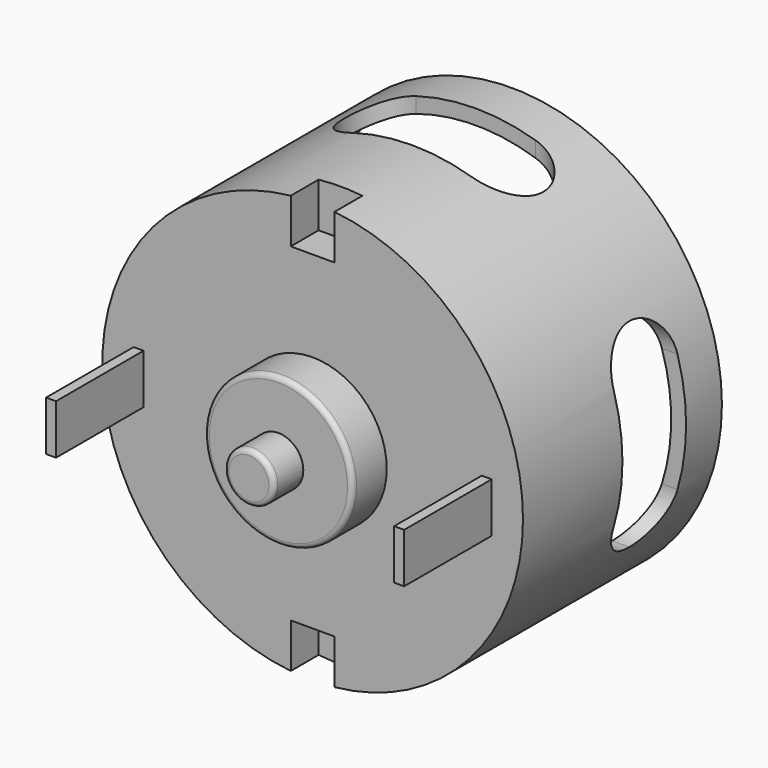
from build123d import *

# Parameters (mm, degrees)
F0_W      = 1
F0_H      = 5
F1_DEPTH  = 11
F0_R      = 21.15
F2_DEPTH  = 25
F3_R      = 19.65
F4_DEPTH  = 20
F6_DEPTH  = 22.5
F8_DEPTH  = 22.5
F10_DEPTH = 3.5
F11_R     = 7.45
F11_R_2   = 2.5
F12_DEPTH = 4.3
F13_DEPTH = 8
F14_R     = 0.5
F15_DEPTH = 1


with BuildPart() as f1:
    # F0 (on Front) → F1 (new body)
    with BuildSketch(Plane.XZ):
        with Locations((-17.5, 0)):
            Rectangle(F0_W, F0_H)
    extrude(amount=F1_DEPTH)


with BuildPart() as f1b:
    # F0 (on Front) → F1, piece 2 (new body)
    with BuildSketch(Plane.XZ):
        with Locations((17.5, 0)):
            Rectangle(F0_W, F0_H)
    extrude(amount=F1_DEPTH)


with BuildPart() as f2:
    # F0 (on Front) → F2 (new body)
    with BuildSketch(Plane.XZ):
        Circle(F0_R)
        with Locations((-17.5, 0)):
            Rectangle(F0_W, F0_H, mode=Mode.SUBTRACT)
        with Locations((17.5, 0)):
            Rectangle(F0_W, F0_H, mode=Mode.SUBTRACT)
        with Locations((-17.5, 0)):
            Rectangle(F0_W, F0_H)
        with Locations((17.5, 0)):
            Rectangle(F0_W, F0_H)
    extrude(amount=-F2_DEPTH)

    # F3 (on face) → F4 (cut)
    with BuildSketch(Plane(origin=(0, 25, 0), x_dir=(-1, 0, 0), z_dir=(0, 1, 0))):
        Circle(F3_R)
    extrude(amount=-F4_DEPTH, mode=Mode.SUBTRACT)

    # F5 (on Right) → F6 (cut, symmetric)
    with BuildSketch(Plane.YZ):
        with BuildLine():
            ThreePointArc((20.5, 6), (19.3284271247, 8.8284271247), (16.5, 10))
            ThreePointArc((16.5, 10), (13.6715728753, 8.8284271247), (12.5, 6))
            Line((12.5, 6), (12.5, -6))
            ThreePointArc((12.5, -6), (13.6715728753, -8.8284271247), (16.5, -10))
            ThreePointArc((16.5, -10), (19.3284271247, -8.8284271247), (20.5, -6))
            Line((20.5, -6), (20.5, 6))
        make_face()
    extrude(amount=F6_DEPTH, both=True, mode=Mode.SUBTRACT)

    # F7 (on Top) → F8 (cut, symmetric)
    with BuildSketch(Plane.XY):
        with BuildLine():
            Line((6, 20.5), (-6, 20.5))
            ThreePointArc((-6, 20.5), (-8.8284271247, 19.3284271247), (-10, 16.5))
            ThreePointArc((-10, 16.5), (-8.8284271247, 13.6715728753), (-6, 12.5))
            Line((-6, 12.5), (6, 12.5))
            ThreePointArc((6, 12.5), (8.8284271247, 13.6715728753), (10, 16.5))
            ThreePointArc((10, 16.5), (8.8284271247, 19.3284271247), (6, 20.5))
        make_face()
    extrude(amount=F8_DEPTH, both=True, mode=Mode.SUBTRACT)

    # F9 (on face) → F10 (cut)
    with BuildSketch(Plane.XZ):
        with BuildLine():
            ThreePointArc((2.2, 21.035268004), (0, 21.15), (-2.2, 21.035268004))
            Line((-2.2, 21.035268004), (-2.2, 16.55))
            Line((-2.2, 16.55), (2.2, 16.55))
            Line((2.2, 16.55), (2.2, 21.035268004))
        make_face()
        with BuildLine():
            Line((2.2, -16.55), (-2.2, -16.55))
            Line((-2.2, -16.55), (-2.2, -21.035268004))
            ThreePointArc((-2.2, -21.035268004), (0, -21.15), (2.2, -21.035268004))
            Line((2.2, -21.035268004), (2.2, -16.55))
        make_face()
    extrude(amount=-F10_DEPTH, mode=Mode.SUBTRACT)

    # F11 (on face) → F12 (join)
    with BuildSketch(Plane.XZ):
        Circle(F11_R)
        Circle(F11_R_2, mode=Mode.SUBTRACT)
    extrude(amount=F12_DEPTH)

    # F13 (add): a face of the model
    f13_faces = [f2.faces().sort_by_distance(p)[0] for p in [
        (0, 0, 0),
    ]]
    extrude(f13_faces, amount=F13_DEPTH)

    # F14
    f14_edges = [f2.edges().sort_by_distance(p)[0] for p in [
        (-7.45, -4.3, 0),
        (-2.5, -8, 0),
    ]]
    fillet(f14_edges, radius=F14_R)

    # F0 (on Front) → F15 (cut)
    with BuildSketch(Plane.XZ):
        with Locations((-17.5, 0)):
            Rectangle(F0_W, F0_H)
        with Locations((17.5, 0)):
            Rectangle(F0_W, F0_H)
    extrude(amount=-F15_DEPTH, mode=Mode.SUBTRACT)


solid = Compound([f1.part, f1b.part, f2.part])
